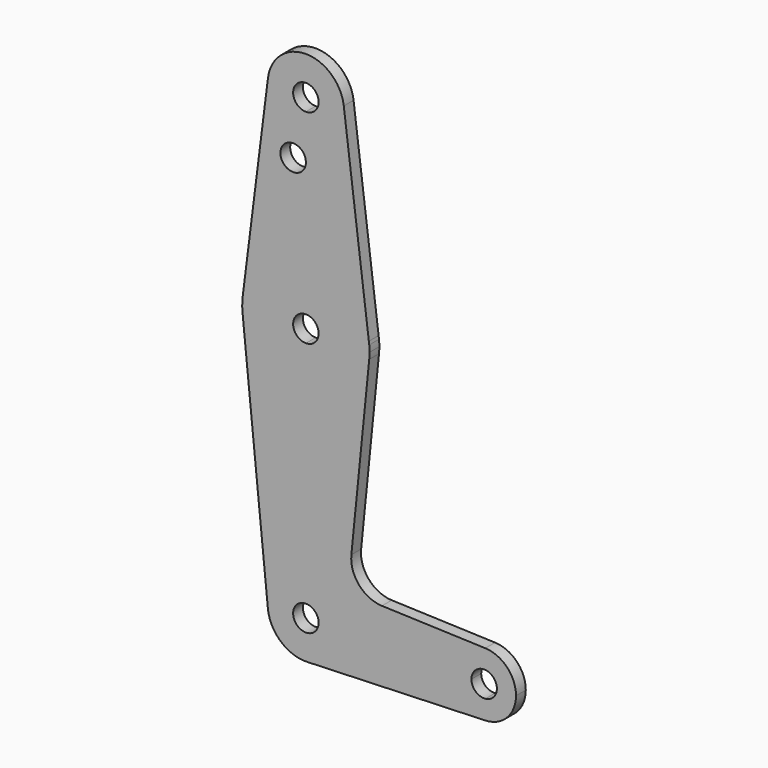
from build123d import *

# Parameters (mm, degrees)
F0_R     = 3.175
F1_DEPTH = 3.048


with BuildPart() as f1:
    # F0 (on Front) → F1 (new body)
    with BuildSketch(Plane.XZ):
        with BuildLine():
            ThreePointArc((-34.9995893254, 64.5027186243), (-44.4495289937, 72.8380282822), (-53.9002929692, 64.5036532542))
            ThreePointArc((-53.9002929692, 64.5036532542), (-51.5937499868, 57.0128329694), (-44.45, 53.7880282938))
            ThreePointArc((-44.45, 53.7880282938), (-37.7148079092, 56.577836203), (-34.925, 63.3130282938))
            ThreePointArc((-34.925, 63.3130282938), (-34.9436656204, 63.9090414333), (-34.9995893254, 64.5027186243))
        make_face()
        with BuildLine():
            ThreePointArc((-41.275, 63.3130282938), (-42.2049359697, 61.0679642636), (-44.45, 60.1380282938))
            ThreePointArc((-44.45, 60.1380282938), (-46.6950640303, 65.5580923241), (-41.275, 63.3130282938))
        make_face(mode=Mode.SUBTRACT)
        with BuildLine():
            Line((-44.45, 49.0382282938), (-44.45, 28.3880282938))
            ThreePointArc((-44.45, 28.3880282938), (-34.0990938485, 24.5494052925), (-28.7539485861, 14.889917375))
            Line((-28.7539485861, 14.889917375), (-34.9995893254, 64.5027186243))
            ThreePointArc((-34.9995893254, 64.5027186243), (-34.9436656204, 63.9090414333), (-34.925, 63.3130282938))
            ThreePointArc((-34.925, 63.3130282938), (-37.7148079092, 56.577836203), (-44.45, 53.7880282938))
            Line((-44.45, 53.7880282938), (-44.45, 49.0382282938))
        make_face()
        with BuildLine():
            Line((-53.9002929692, 64.5036532542), (-60.2004880689, 14.4974032278))
            ThreePointArc((-60.2004880689, 14.4974032278), (-54.9503254076, 24.4192782013), (-44.45, 28.3880282938))
            Line((-44.45, 28.3880282938), (-44.45, 49.0382282938))
            Line((-44.45, 49.0382282938), (-44.45, 53.7880282938))
            ThreePointArc((-44.45, 53.7880282938), (-51.5937499868, 57.0128329694), (-53.9002929692, 64.5036532542))
        make_face()
        with Locations((-47.625, 49.0382282938)):
            Circle(F0_R, mode=Mode.SUBTRACT)
        with BuildLine():
            ThreePointArc((-60.2454253563, 10.9255283469), (-55.0992736285, 0.7398132849), (-44.45, -3.3619717062))
            Line((-44.45, -3.3619717062), (-44.45, 9.3380282938))
            ThreePointArc((-44.45, 9.3380282938), (-47.6249997869, 12.5130282938), (-44.45, 15.6880282938))
            Line((-44.45, 15.6880282938), (-44.45, 28.3880282938))
            ThreePointArc((-44.45, 28.3880282938), (-54.9503254076, 24.4192782013), (-60.2004880689, 14.4974032278))
            ThreePointArc((-60.2004880689, 14.4974032278), (-60.3237436024, 12.7127337739), (-60.2454253563, 10.9255283469))
        make_face()
        with BuildLine():
            Line((-44.45, 9.3380282938), (-44.45, -3.3619717062))
            ThreePointArc((-44.45, -3.3619717062), (-33.8007261428, 0.7398131062), (-28.6545742281, 10.9255282408))
            ThreePointArc((-28.6545742281, 10.9255282408), (-28.5949058776, 11.7182817132), (-28.5749997869, 12.5130282938))
            ThreePointArc((-28.5749997869, 12.5130282938), (-28.5949058776, 13.3077748745), (-28.6545742281, 14.1005283469))
            Line((-28.6545742281, 14.1005283469), (-28.7539485861, 14.889917375))
            ThreePointArc((-28.7539485861, 14.889917375), (-34.0990938485, 24.5494052925), (-44.45, 28.3880282938))
            Line((-44.45, 28.3880282938), (-44.45, 15.6880282938))
            ThreePointArc((-44.45, 15.6880282938), (-42.2049358319, 14.7580923995), (-41.2749997869, 12.5130282938))
            ThreePointArc((-41.2749997869, 12.5130282938), (-42.2049358319, 10.2679641882), (-44.45, 9.3380282938))
        make_face()
        with BuildLine():
            Line((-44.45, -3.3619717062), (-44.45, -41.4619717062))
            ThreePointArc((-44.45, -41.4619717062), (-37.7148079092, -44.2517796154), (-34.925, -50.9869717062))
            Line((-34.925, -50.9869717062), (-7.9375, -50.9869717062))
            ThreePointArc((-7.9375, -50.9869717062), (-5.5119104847, -45.2753389222), (0.2824052746, -43.0544970916))
            Line((0.2824052746, -43.0544970916), (-25.4816720694, -42.1372661278))
            ThreePointArc((-25.4816720694, -42.1372661278), (-31.1887959636, -39.4195088025), (-33.1091640662, -33.3970795273))
            Line((-33.1091640662, -33.3970795273), (-28.6545742281, 10.9255282408))
            ThreePointArc((-28.6545742281, 10.9255282408), (-33.8007261428, 0.7398131062), (-44.45, -3.3619717062))
        make_face()
        with BuildLine():
            ThreePointArc((-53.9272553416, -51.9394716743), (-51.5139290482, -44.5974074486), (-44.45, -41.4619717062))
            Line((-44.45, -41.4619717062), (-44.45, -3.3619717062))
            ThreePointArc((-44.45, -3.3619717062), (-55.0992736285, 0.7398132849), (-60.2454253563, 10.9255283469))
            Line((-60.2454253563, 10.9255283469), (-53.9272553416, -51.9394716743))
        make_face()
        with BuildLine():
            Line((-7.9375, -50.9869717062), (-34.925, -50.9869717062))
            ThreePointArc((-34.925, -50.9869717062), (-37.5955917089, -57.6007990383), (-44.1098214129, -60.5058951499))
            Line((-44.1098214129, -60.5058951499), (0.2824052746, -58.9194463207))
            ThreePointArc((0.2824052746, -58.9194463207), (-5.5119104847, -56.6986044901), (-7.9375, -50.9869717062))
        make_face()
        with BuildLine():
            ThreePointArc((-41.275, -50.9869717062), (-46.6950640303, -53.2320357364), (-44.45, -47.8119717062))
            Line((-44.45, -47.8119717062), (-44.45, -41.4619717062))
            ThreePointArc((-44.45, -41.4619717062), (-51.5139290482, -44.5974074486), (-53.9272553416, -51.9394716743))
            ThreePointArc((-53.9272553416, -51.9394716743), (-50.7123833878, -58.1638916099), (-44.1098214129, -60.5058951499))
            ThreePointArc((-44.1098214129, -60.5058951499), (-37.5955917089, -57.6007990383), (-34.925, -50.9869717062))
            Line((-34.925, -50.9869717062), (-41.275, -50.9869717062))
        make_face()
        with BuildLine():
            Line((-44.45, -41.4619717062), (-44.45, -47.8119717062))
            ThreePointArc((-44.45, -47.8119717062), (-42.2049359697, -48.7419076759), (-41.275, -50.9869717062))
            Line((-41.275, -50.9869717062), (-34.925, -50.9869717062))
            ThreePointArc((-34.925, -50.9869717062), (-37.7148079092, -44.2517796154), (-44.45, -41.4619717062))
        make_face()
        with BuildLine():
            ThreePointArc((7.9375, -50.9869717062), (5.7116327839, -45.4750612214), (0.2824052746, -43.0544970916))
            Line((0.2824052746, -43.0544970916), (0.2824052746, -47.8245561324))
            ThreePointArc((0.2824052746, -47.8245561324), (2.34278272, -48.8440778388), (3.175, -50.9869717062))
            ThreePointArc((3.175, -50.9869717062), (2.34278272, -53.1298655735), (0.2824052746, -54.1493872799))
            Line((0.2824052746, -54.1493872799), (0.2824052746, -58.9194463207))
            ThreePointArc((0.2824052746, -58.9194463207), (5.7116327839, -56.4988821909), (7.9375, -50.9869717062))
        make_face()
        with BuildLine():
            ThreePointArc((0.2824052746, -43.0544970916), (-5.5119104847, -45.2753389222), (-7.9375, -50.9869717062))
            Line((-7.9375, -50.9869717062), (-3.175, -50.9869717062))
            ThreePointArc((-3.175, -50.9869717062), (-2.1428938673, -48.6441889861), (0.2824052746, -47.8245561324))
            Line((0.2824052746, -47.8245561324), (0.2824052746, -43.0544970916))
        make_face()
        with BuildLine():
            Line((-3.175, -50.9869717062), (-7.9375, -50.9869717062))
            ThreePointArc((-7.9375, -50.9869717062), (-5.5119104847, -56.6986044901), (0.2824052746, -58.9194463207))
            Line((0.2824052746, -58.9194463207), (0.2824052746, -54.1493872799))
            ThreePointArc((0.2824052746, -54.1493872799), (-2.1428938673, -53.3297544262), (-3.175, -50.9869717062))
        make_face()
    extrude(amount=F1_DEPTH)


solid = f1.part
